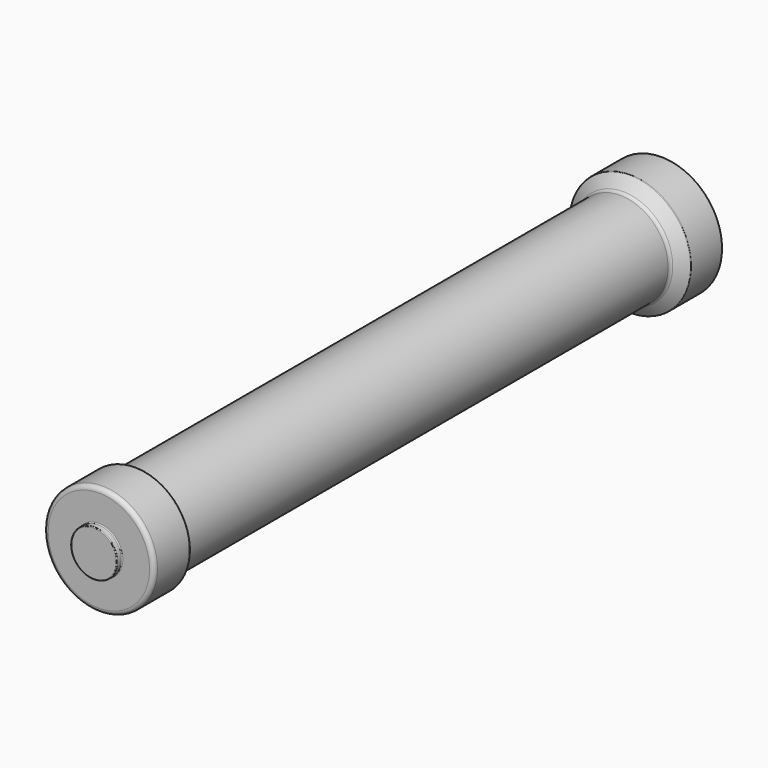
from build123d import *


with BuildPart() as part:
    # Sketch → Revolution (revolve)
    with BuildSketch(Plane.XY):
        with BuildLine():
            Line((-2.180142, -47.129375), (-2.180142, -48.50645))
            ThreePointArc((-2.180142, -48.50645), (-2.177063, -48.519832), (-2.168446, -48.530521))
            Line((-2.168446, -48.530521), (-1.779484, -48.836251))
            ThreePointArc((-1.715563, -48.967796), (-1.732389, -48.894669), (-1.779484, -48.836251))
            Line((-1.715563, -48.967796), (-1.715563, -70.624664))
            ThreePointArc((-1.785431, -70.694532), (-1.736027, -70.674068), (-1.715563, -70.624664))
            Line((-1.785431, -70.694532), (-1.935173, -70.694532))
            ThreePointArc((-1.935173, -70.694532), (-1.963666, -70.706334), (-1.975468, -70.734827))
            Line((-1.975468, -70.734827), (-1.975468, -72.170168))
            ThreePointArc((-1.975468, -72.170168), (-1.9294, -72.281531), (-1.818123, -72.327805))
            Line((-1.818123, -72.327805), (-0.86072, -72.329576))
            ThreePointArc((-0.829025, -72.361329), (-0.838305, -72.338897), (-0.86072, -72.329576))
            Line((-0.829025, -72.361329), (-0.829025, -72.523831))
            ThreePointArc((-0.829025, -72.523831), (-0.821279, -72.542532), (-0.802578, -72.550278))
            Line((-0.802578, -72.550278), (0, -72.550278))
            Line((0, -72.550278), (0, -47.129375))
            Line((-2.180142, -47.129375), (0, -47.129375))
        make_face()
    revolve(axis=Axis((0, 0, 0), (0, 1, 0)))


solid = part.part
